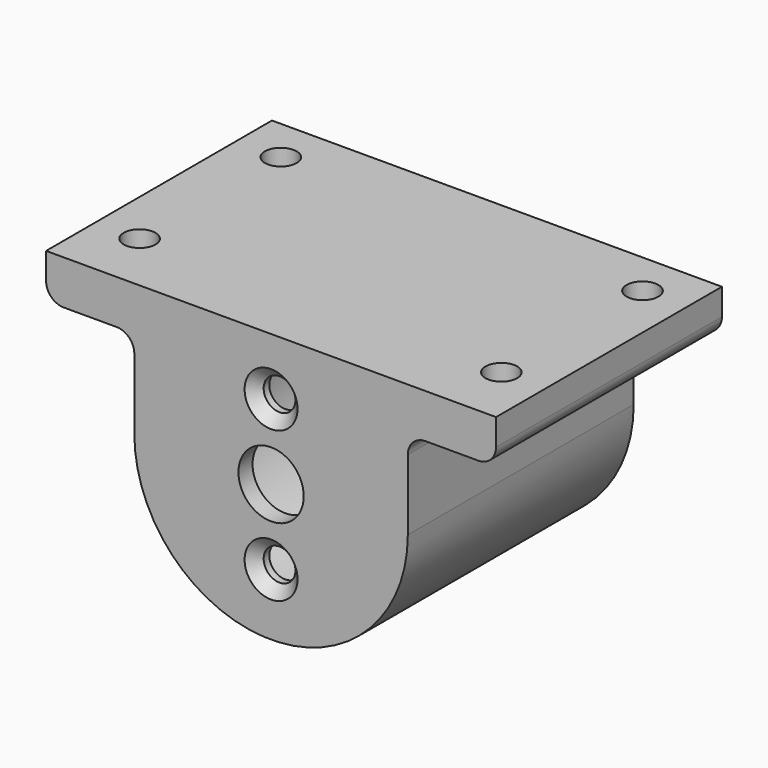
from build123d import *

# Parameters (mm, degrees)
PAD001_START    = 60
PAD001_DEPTH    = 32
SKETCH002_R     = 12.7
POCKET_DEPTH    = 30
SKETCH003_R     = 1.8
SKETCH003_R_2   = 3.7
POCKET001_DEPTH = 2
SKETCH004_R     = 1.8
POCKET002_DEPTH = 5.001
SKETCH010_R     = 3
POCKET006_DEPTH = 1.2
POCKET006_TAPER = 45
SKETCH033_R     = 3
POCKET020_DEPTH = 2
POCKET020_TAPER = 45


with BuildPart() as part:
    # Sketch001 → Pad001 (new body)
    with BuildSketch(Plane.XZ.offset(PAD001_START)):
        with BuildLine():
            ThreePointArc((-15.5, 0), (0, -15.5), (15.5, 0))
            Line((15.5, 8), (15.5, 0))
            ThreePointArc((17.5, 10), (16.085786, 9.414214), (15.5, 8))
            Line((23.5, 10), (17.5, 10))
            ThreePointArc((23.5, 10), (24.914214, 10.585786), (25.5, 12))
            Line((25.5, 15), (25.5, 12))
            Line((-25.5, 15), (25.5, 15))
            Line((-25.5, 12), (-25.5, 15))
            ThreePointArc((-25.5, 12), (-24.914214, 10.585786), (-23.5, 10))
            Line((-17.5, 10), (-23.5, 10))
            ThreePointArc((-15.5, 8), (-16.085786, 9.414214), (-17.5, 10))
            Line((-15.5, 0), (-15.5, 8))
        make_face()
    extrude(amount=PAD001_DEPTH)

    # Sketch002 (on Face13 of Pad001) → Pocket (cut)
    with BuildSketch(Plane(origin=(0, -60, 0), x_dir=(1, 0, 0), z_dir=(0, 1, 0))):
        Circle(SKETCH002_R)
    extrude(amount=-POCKET_DEPTH, mode=Mode.SUBTRACT)

    # Sketch003 (on Face5 of Pocket) → Pocket001 (cut)
    with BuildSketch(Plane.XZ.offset(92)):
        with Locations((0, 8.5)):
            Circle(SKETCH003_R)
        with Locations((0, -8.5)):
            Circle(SKETCH003_R)
        Circle(SKETCH003_R_2)
    extrude(amount=-POCKET001_DEPTH, mode=Mode.SUBTRACT)

    # Sketch004 (on Face3 of Pocket001) → Pocket002 (cut, through all)
    with BuildSketch(Plane(origin=(0, 0, 10), x_dir=(1, 0, 0), z_dir=(0, 0, -1))):
        with Locations((-20.5, 85)):
            Circle(SKETCH004_R)
        with Locations((-20.5, 65)):
            Circle(SKETCH004_R)
        with Locations((20.5, 65)):
            Circle(SKETCH004_R)
        with Locations((20.5, 85)):
            Circle(SKETCH004_R)
    extrude(amount=-POCKET002_DEPTH, mode=Mode.SUBTRACT)

    # Sketch010 (on Face3 of Pocket002) → Pocket006 (cut)
    with BuildSketch(Plane(origin=(0, 0, 10), x_dir=(1, 0, 0), z_dir=(0, 0, -1))):
        with Locations((-20.5, 85)):
            Circle(SKETCH010_R)
        with Locations((20.5, 85)):
            Circle(SKETCH010_R)
        with Locations((20.5, 65)):
            Circle(SKETCH010_R)
        with Locations((-20.5, 65)):
            Circle(SKETCH010_R)
    extrude(amount=-POCKET006_DEPTH, taper=POCKET006_TAPER, mode=Mode.SUBTRACT)

    # Sketch033 (on Face7 of Pocket006) → Pocket020 (cut)
    with BuildSketch(Plane.XZ.offset(92)):
        with Locations((0, 8.5)):
            Circle(SKETCH033_R)
        with Locations((0, -8.5)):
            Circle(SKETCH033_R)
    extrude(amount=-POCKET020_DEPTH, taper=POCKET020_TAPER, mode=Mode.SUBTRACT)


with BuildPart() as part_1:
    # Body001 placement: moved
    add(part.part.moved(Location((0, 2, 0))))


solid = part_1.part
